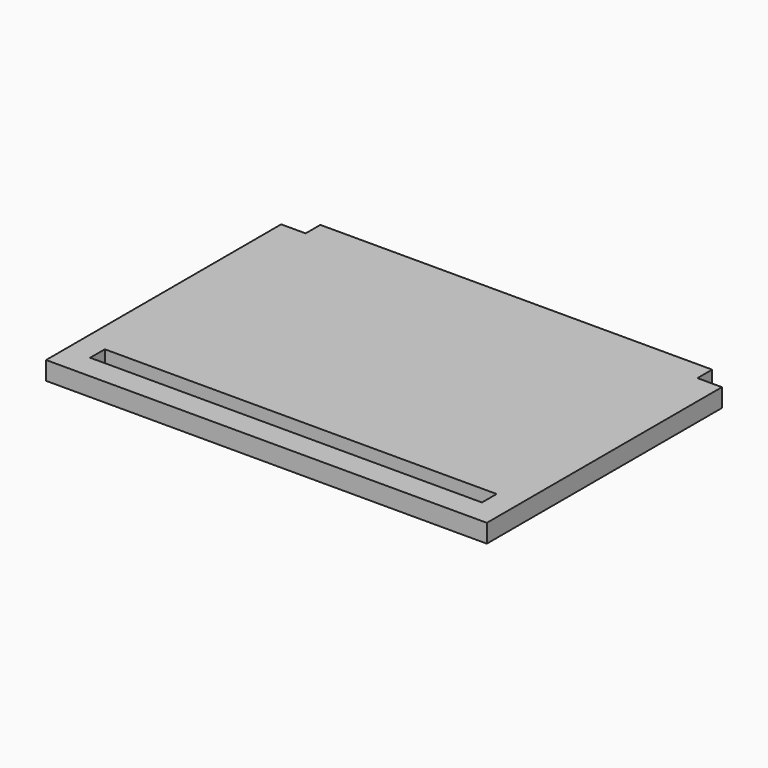
from build123d import *

# Parameters (mm, degrees)
F0_W     = 406.4
F0_H     = 19.05
F1_DEPTH = 19.05


with BuildPart() as f1:
    # F0 (on Top) → F1 (new body)
    with BuildSketch(Plane.XY):
        Polygon((-210.652697, -85.374505), (-236.052697, -85.374505), (-236.052697, -390.174505), (221.147303, -390.174505), (221.147303, -85.374505), (195.747303, -85.374505), (195.747303, -66.324505), (-210.652697, -66.324505), align=None)
        with Locations((-7.452697, -355.249505)):
            Rectangle(F0_W, F0_H, mode=Mode.SUBTRACT)
    extrude(amount=F1_DEPTH)


solid = f1.part
